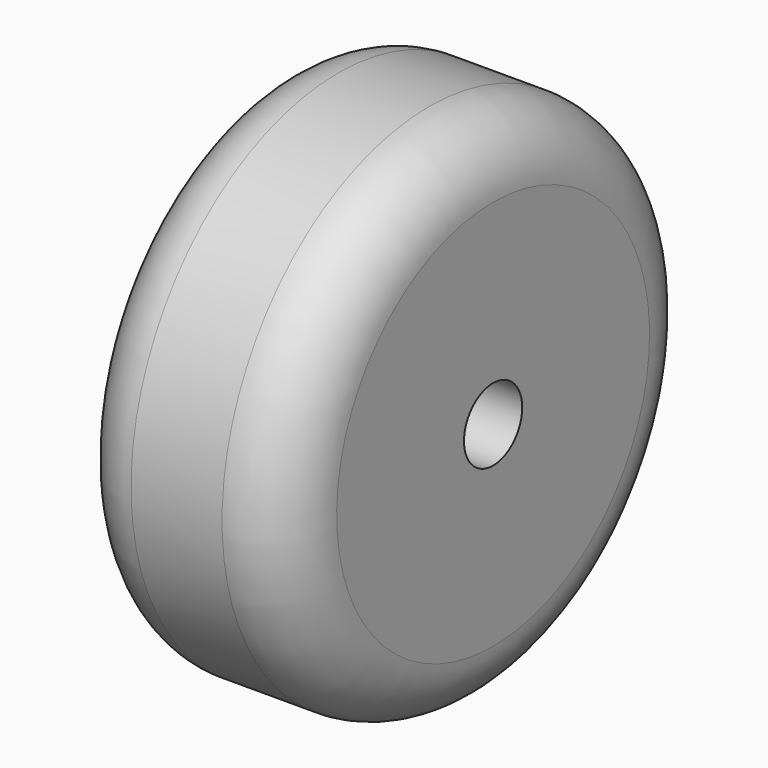
from build123d import *

# Parameters (mm, degrees)
F3_D = 8


with BuildPart() as f1:
    # F0 (on Front) → F1 (revolve)
    with BuildSketch(Plane.XZ):
        with BuildLine():
            Line((-12, 0), (12, 0))
            Line((12, 0), (12, 21.5))
            ThreePointArc((12, 21.5), (9.949747, 26.449747), (5, 28.5))
            Line((5, 28.5), (-5, 28.5))
            ThreePointArc((-5, 28.5), (-9.949747, 26.449747), (-12, 21.5))
            Line((-12, 21.5), (-12, 0))
        make_face()
    revolve(axis=Axis((10.419115, 0, 0), (1, 0, 0)))

    # F3 (through all)
    with Locations(Plane(origin=(-12, 0, 0), x_dir=(0, -1, 0), z_dir=(-1, 0, 0))):
        with Locations((0, 0)):
            Hole(F3_D / 2)


solid = f1.part
